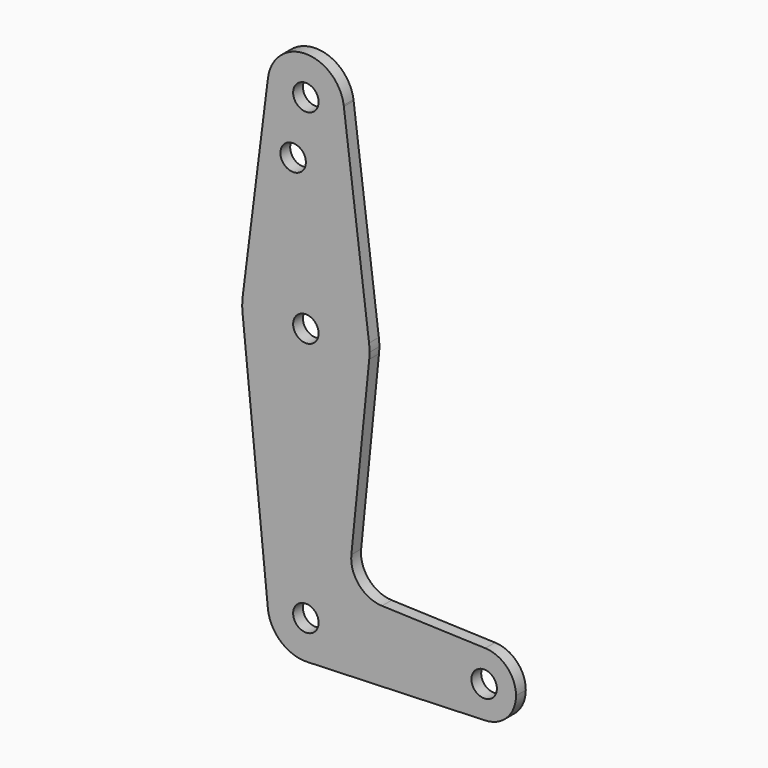
from build123d import *

# Parameters (mm, degrees)
F0_R     = 3.175
F1_DEPTH = 3.048


with BuildPart() as f1:
    # F0 (on Front) → F1 (new body)
    with BuildSketch(Plane.XZ):
        with BuildLine():
            Line((-23.714851, 96.808812), (-23.751611, 97.100533))
            ThreePointArc((-23.751611, 97.100533), (-33.329743, 105.287836), (-42.64997, 96.8081))
            ThreePointArc((-42.64997, 96.8081), (-33.705222, 86.253338), (-23.657371, 95.763976))
            ThreePointArc((-23.657371, 95.763976), (-23.671752, 96.287184), (-23.714851, 96.808812))
        make_face()
        with Locations((-33.182371, 95.763976)):
            Circle(F0_R, mode=Mode.SUBTRACT)
        with BuildLine():
            ThreePointArc((-23.657371, 95.763976), (-33.705222, 86.253338), (-42.64997, 96.8081))
            Line((-42.64997, 96.8081), (-48.932815, 46.948709))
            ThreePointArc((-48.932815, 46.948709), (-33.18237, 60.838976), (-17.431928, 46.948706))
            Line((-17.431928, 46.948706), (-23.714851, 96.808812))
            ThreePointArc((-23.714851, 96.808812), (-23.671752, 96.287184), (-23.657371, 95.763976))
        make_face()
        with Locations((-36.357371, 81.489176)):
            Circle(F0_R, mode=Mode.SUBTRACT)
        with BuildLine():
            ThreePointArc((-17.431928, 46.948706), (-33.18237, 60.838976), (-48.932815, 46.948709))
            ThreePointArc((-48.932815, 46.948709), (-49.056114, 45.16377), (-48.977779, 43.376293))
            ThreePointArc((-48.977779, 43.376293), (-33.182371, 29.088976), (-17.386964, 43.376295))
            ThreePointArc((-17.386964, 43.376295), (-17.327282, 44.169139), (-17.307371, 44.963976))
            ThreePointArc((-17.307371, 44.963976), (-17.338541, 45.958294), (-17.431928, 46.948706))
        make_face()
        with Locations((-33.182371, 44.963976)):
            Circle(F0_R, mode=Mode.SUBTRACT)
        with BuildLine():
            ThreePointArc((-17.386964, 43.376295), (-33.182371, 29.088976), (-48.977779, 43.376293))
            Line((-48.977779, 43.376293), (-42.670697, -19.371066))
            ThreePointArc((-42.670697, -19.371066), (-33.600295, -9.020196), (-23.657371, -18.536024))
            ThreePointArc((-23.657371, -18.536024), (-26.327963, -25.149851), (-32.842193, -28.054947))
            Line((-32.842193, -28.054947), (11.551111, -26.46846))
            ThreePointArc((11.551111, -26.46846), (3.330129, -18.536024), (11.551111, -10.603587))
            Line((11.551111, -10.603587), (-14.215285, -9.682771))
            ThreePointArc((-14.215285, -9.682771), (-19.921715, -6.964612), (-21.841689, -0.942532))
            Line((-21.841689, -0.942532), (-17.386964, 43.376295))
        make_face()
        with BuildLine():
            ThreePointArc((-23.657371, -18.536024), (-33.600295, -9.020196), (-42.670697, -19.371066))
            ThreePointArc((-42.670697, -19.371066), (-39.489082, -25.674022), (-32.842193, -28.054947))
            ThreePointArc((-32.842193, -28.054947), (-26.327963, -25.149851), (-23.657371, -18.536024))
        make_face()
        with Locations((-33.182371, -18.536024)):
            Circle(F0_R, mode=Mode.SUBTRACT)
        with BuildLine():
            ThreePointArc((11.551111, -10.603587), (3.330129, -18.536024), (11.551111, -26.46846))
            ThreePointArc((11.551111, -26.46846), (16.979635, -24.047546), (19.205129, -18.536024))
            ThreePointArc((19.205129, -18.536024), (16.979635, -13.024501), (11.551111, -10.603587))
        make_face()
        with Locations((11.267629, -18.536024)):
            Circle(F0_R, mode=Mode.SUBTRACT)
    extrude(amount=F1_DEPTH)


solid = f1.part
